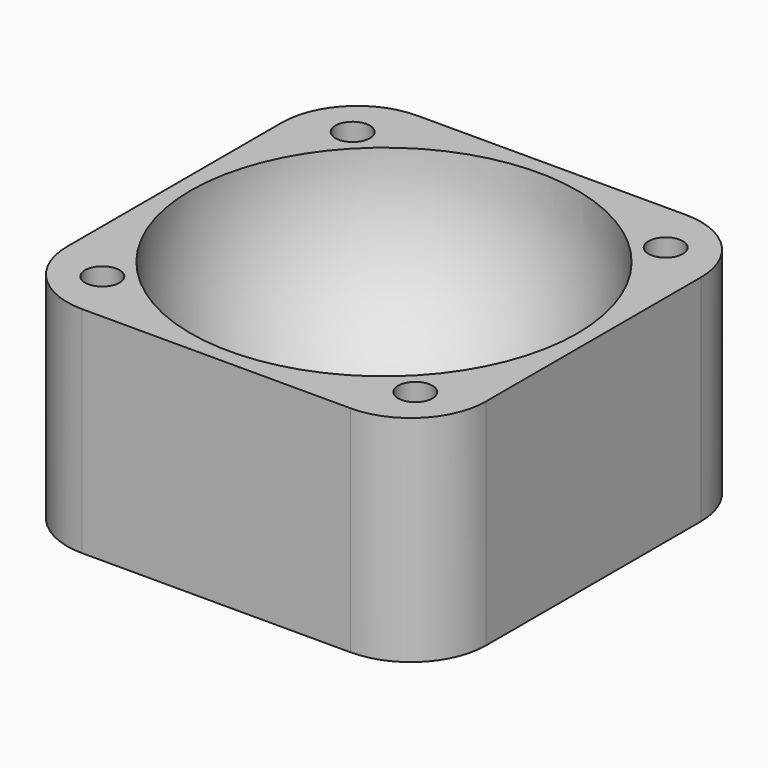
from build123d import *

# Parameters (mm, degrees)
F2_W     = 39
F2_H     = 39
F3_DEPTH = 20
F5_R     = 7
F6_R     = 1.6
F7_DEPTH = 20.001
F7_TAPER = -5


with BuildPart() as f1:
    # F0 (on Top) → F1 (revolve)
    with BuildSketch(Plane.XY):
        with BuildLine():
            Line((0, 0), (36, 0))
            ThreePointArc((36, 0), (18, 18), (0, 0))
        make_face()
    revolve(axis=Axis((18, 0, 0), (1, 0, 0)))


with BuildPart() as f3:
    # F2 (on Top) → F3 (new body)
    with BuildSketch(Plane.XY):
        with Locations((18, 0)):
            Rectangle(F2_W, F2_H)
    extrude(amount=-F3_DEPTH)

    # F4: cut F1
    add(f1.part, mode=Mode.SUBTRACT)

    # F5
    f5_edges = [f3.edges().sort_by_distance(p)[0] for p in [
        (-1.5, -19.5, -10),
        (37.5, -19.5, -10),
        (37.5, 19.5, -10),
        (-1.5, 19.5, -10),
    ]]
    fillet(f5_edges, radius=F5_R)

    # F6 (on face) → F7 (cut, through all)
    with BuildSketch(Plane.XY):
        with Locations((32.5663996924, 14.5663996924)):
            Circle(F6_R)
        with Locations((3.4336003076, 14.5663996924)):
            Circle(F6_R)
        with Locations((3.4336003076, -14.5663996924)):
            Circle(F6_R)
        with Locations((32.5663996924, -14.5663996924)):
            Circle(F6_R)
    extrude(amount=-F7_DEPTH, taper=F7_TAPER, mode=Mode.SUBTRACT)


solid = f3.part
